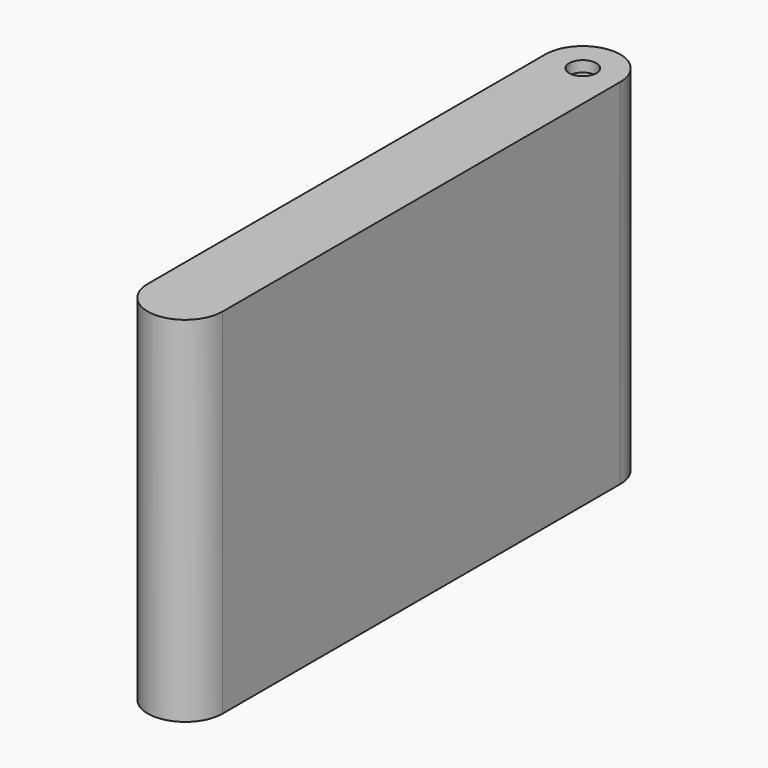
from build123d import *

# Parameters (mm, degrees)
SKETCH_R     = 2.5
PAD_DEPTH    = 65
SKETCH001_R  = 2.5
PAD001_DEPTH = 63


with BuildPart() as part:
    # Sketch → Pad (new body)
    with BuildSketch(Plane.XY):
        with BuildLine():
            ThreePointArc((-6.875, 6.875), (0, 0), (6.875, 6.875))
            Line((6.875, 6.875), (6.875, 98.125))
            ThreePointArc((6.875, 98.125), (0, 105), (-6.875, 98.125))
            Line((-6.875, 98.125), (-6.875, 6.875))
        make_face()
        with Locations((0, 98.125)):
            Circle(SKETCH_R, mode=Mode.SUBTRACT)
    extrude(amount=PAD_DEPTH)

    # Sketch001 (on Face6 of Pad) → Pad001 (join)
    with BuildSketch(Plane(origin=(0, 0, 0), x_dir=(1, 0, 0), z_dir=(0, 0, -1))):
        with Locations((0, -98.125)):
            Circle(SKETCH001_R)
    extrude(amount=-PAD001_DEPTH)


solid = part.part
